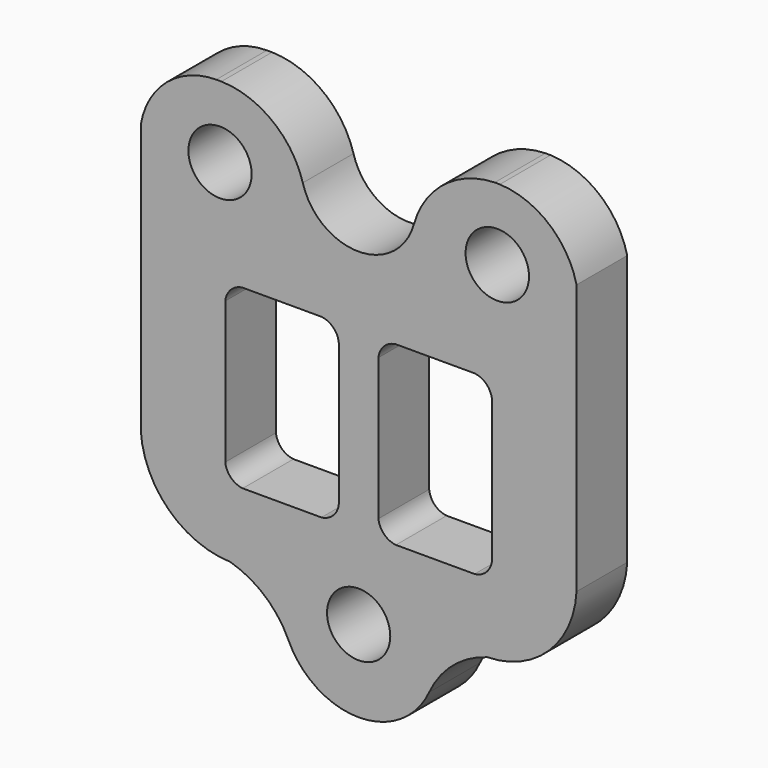
from build123d import *

# Parameters (mm, degrees)
F4_R     = 5.9862131535
F4_R_2   = 5.9887190734
F4_R_3   = 6.0035875387
F5_DEPTH = 12


with BuildPart() as f5:
    # F4 (on face) → F5 (new body)
    with BuildSketch(Plane.XZ):
        with BuildLine():
            ThreePointArc((41.25, 36.7468819022), (36.0155544499, 45.2005833789), (26.7333444208, 48.765))
            Line((26.7333444208, 48.765), (25.7670405285, 48.765))
            ThreePointArc((25.7670405285, 48.765), (16.1866994871, 45.321773358), (10.4836272076, 36.8888787925))
            ThreePointArc((10.4836272076, 36.8888787925), (-0.0436762348, 28.8638387255), (-10.5709796771, 36.8888787925))
            ThreePointArc((-10.5709796771, 36.8888787925), (-16.3337991948, 45.3463069878), (-25.9800792323, 48.765))
            Line((-25.9800792323, 48.765), (-26.7886016518, 48.765))
            Line((-26.7886016518, 48.765), (-26.9670386529, 48.765))
            ThreePointArc((-26.9670386529, 48.765), (-36.3215734605, 45.292049957), (-41.25, 36.6156846285))
            Line((-41.25, 36.6156846285), (-41.25, -14.4345303997))
            ThreePointArc((-41.25, -14.4345303997), (-35.9373438369, -25.8683872074), (-24.3187360466, -30.763828967))
            ThreePointArc((-24.3187360466, -30.763828967), (-17.7635079476, -34.2901625302), (-13.2797408395, -40.2317007442))
            ThreePointArc((-13.2797408395, -40.2317007442), (-7.8708383281, -46.4486562614), (0.0374683153, -48.765))
            ThreePointArc((0.0374683153, -48.765), (7.9457749586, -46.4486562614), (13.35467747, -40.2317007442))
            ThreePointArc((13.35467747, -40.2317007442), (17.8152110928, -34.3238927237), (24.3369212747, -30.8216288686))
            ThreePointArc((24.3369212747, -30.8216288686), (36.0220971019, -25.929488859), (41.25, -14.3906241283))
            Line((41.25, -14.3906241283), (41.25, 36.7468819022))
        make_face()
        Polygon((-25.25, 15.715), (-21.95, 15.715), (-7.05, 15.715), (-3.75, 15.715), (-3.75, 12.415), (-3.75, -14.435), (-3.75, -17.735), (-7.05, -17.735), (-21.95, -17.735), (-25.25, -17.735), (-25.25, -14.435), (-25.25, 12.415), align=None, mode=Mode.SUBTRACT)
        with Locations((0, -33.2778729498)):
            Circle(F4_R, mode=Mode.SUBTRACT)
        with BuildLine():
            ThreePointArc((3.75, 12.415), (4.8106601718, 14.6543398282), (7.05, 15.715))
            Line((7.05, 15.715), (21.95, 15.715))
            ThreePointArc((21.95, 15.715), (24.1893398282, 14.6543398282), (25.25, 12.415))
            Line((25.25, 12.415), (25.25, -14.435))
            ThreePointArc((25.25, -14.435), (24.1893398282, -16.6743398282), (21.95, -17.735))
            Line((21.95, -17.735), (7.05, -17.735))
            ThreePointArc((7.05, -17.735), (4.8106601718, -16.6743398282), (3.75, -14.435))
            Line((3.75, -14.435), (3.75, 12.415))
        make_face(mode=Mode.SUBTRACT)
        with Locations((-26.2494534254, 35.197801888)):
            Circle(F4_R_2, mode=Mode.SUBTRACT)
        with Locations((26.250526309, 35.2076478302)):
            Circle(F4_R_3, mode=Mode.SUBTRACT)
        with BuildLine():
            Line((-3.75, -17.735), (-3.75, -14.435))
            ThreePointArc((-3.75, -14.435), (-4.8106601718, -16.6743398282), (-7.05, -17.735))
            Line((-7.05, -17.735), (-3.75, -17.735))
        make_face()
        with BuildLine():
            ThreePointArc((-21.95, -17.735), (-24.1893398282, -16.6743398282), (-25.25, -14.435))
            Line((-25.25, -14.435), (-25.25, -17.735))
            Line((-25.25, -17.735), (-21.95, -17.735))
        make_face()
        with BuildLine():
            ThreePointArc((-25.25, 12.415), (-24.1893398282, 14.6543398282), (-21.95, 15.715))
            Line((-21.95, 15.715), (-25.25, 15.715))
            Line((-25.25, 15.715), (-25.25, 12.415))
        make_face()
        with BuildLine():
            Line((-3.75, 15.715), (-7.05, 15.715))
            ThreePointArc((-7.05, 15.715), (-4.8106601718, 14.6543398282), (-3.75, 12.415))
            Line((-3.75, 12.415), (-3.75, 15.715))
        make_face()
    extrude(amount=F5_DEPTH)


solid = f5.part
